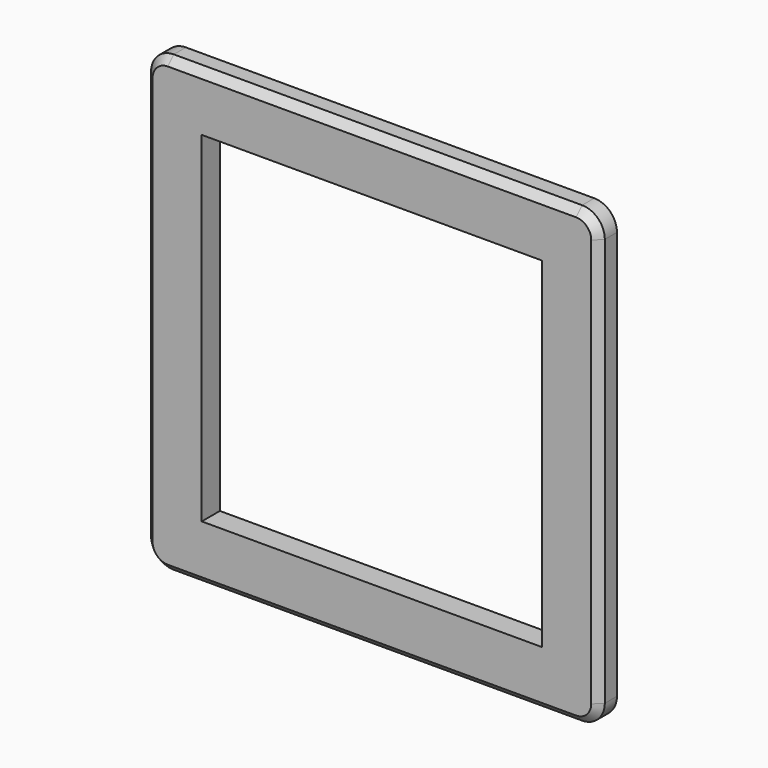
from build123d import *

# Parameters (mm, degrees)
F0_W     = 45
F0_H     = 45
F1_DEPTH = 3
F2_SIZE  = 1


with BuildPart() as f1:
    # F0 (on Front) → F1 (new body)
    with BuildSketch(Plane.XZ):
        with BuildLine():
            Line((27, 30), (-27, 30))
            ThreePointArc((-27, 30), (-29.12132, 29.12132), (-30, 27))
            Line((-30, 27), (-30, -27))
            ThreePointArc((-30, -27), (-29.12132, -29.12132), (-27, -30))
            Line((-27, -30), (27, -30))
            ThreePointArc((27, -30), (29.12132, -29.12132), (30, -27))
            Line((30, -27), (30, 27))
            ThreePointArc((30, 27), (29.12132, 29.12132), (27, 30))
        make_face()
        Rectangle(F0_W, F0_H, mode=Mode.SUBTRACT)
    extrude(amount=F1_DEPTH)

    # F2
    f2_edges = [f1.edges().sort_by_distance(p)[0] for p in [
        (-30, -3, 0),
        (0, -3, 30),
        (30, -3, 0),
        (0, -3, -30),
    ]]
    chamfer(f2_edges, length=F2_SIZE)


solid = f1.part
